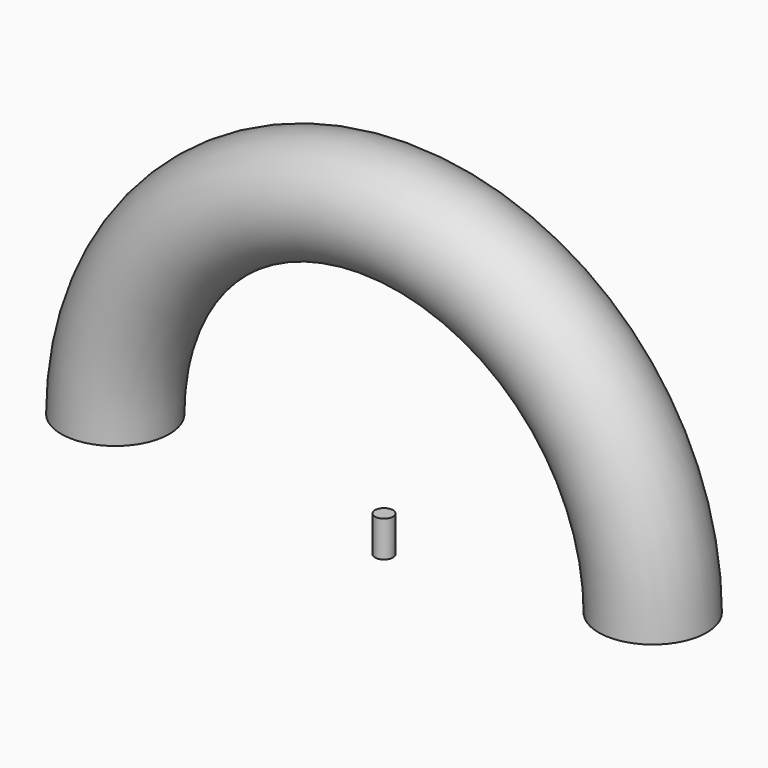
from build123d import *

# Parameters (mm, degrees)
F1_R     = 15
F1_R_2   = 2.5
F3_DEPTH = 10


with BuildPart() as f2:
    # F2: sweep along a path in F0
    with BuildLine(Plane.XZ) as f2_path:
        ThreePointArc((75, 0), (0, 75), (-75, 0))
    # F1 (on Top) → F2 (sweep)
    with BuildSketch(Plane.XY):
        with Locations((-74.627526, 0)):
            Circle(F1_R)
    sweep(path=f2_path.line)


with BuildPart() as f3:
    # F1 (on Top) → F3 (new body)
    with BuildSketch(Plane.XY):
        Circle(F1_R_2)
    extrude(amount=-F3_DEPTH)


solid = Compound([f2.part, f3.part])
